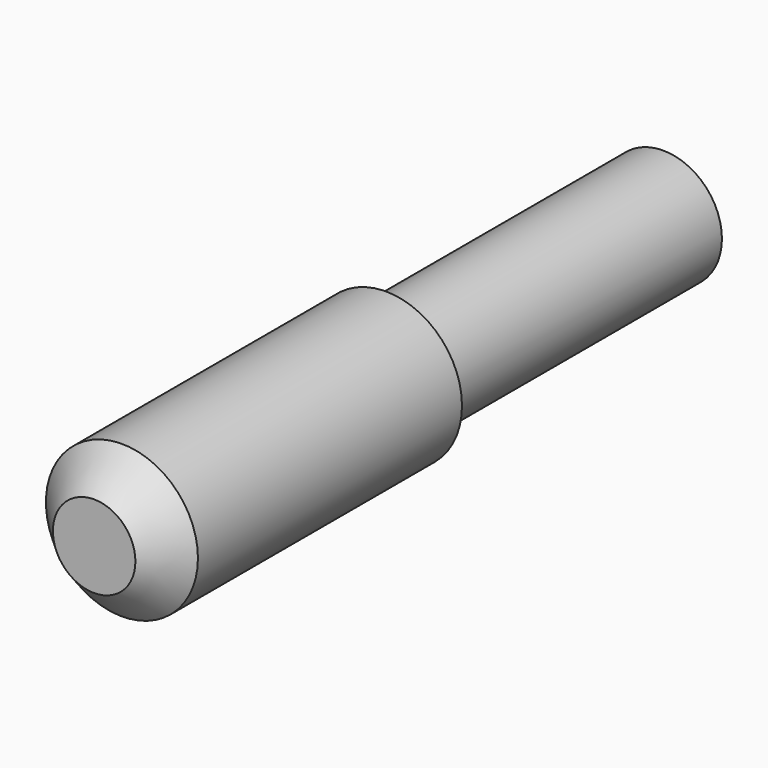
from build123d import *

# Parameters (mm, degrees)
F0_R     = 11.1125
F1_DEPTH = 53.34
F2_SIZE  = 5.08
F3_R     = 8.5725
F4_DEPTH = 50.8


with BuildPart() as f1:
    # F0 (on Front) → F1 (new body)
    with BuildSketch(Plane.XZ):
        with Locations((-37.678103, 0)):
            Circle(F0_R)
    extrude(amount=F1_DEPTH)

    # F2
    f2_edges = [f1.edges().sort_by_distance(p)[0] for p in [
        (-48.790603, -53.34, 0),
    ]]
    chamfer(f2_edges, length=F2_SIZE)

    # F3 (on face) → F4 (join)
    with BuildSketch(Plane.XZ):
        with Locations((-37.773054, 0)):
            Circle(F3_R)
    extrude(amount=-F4_DEPTH)


solid = f1.part
